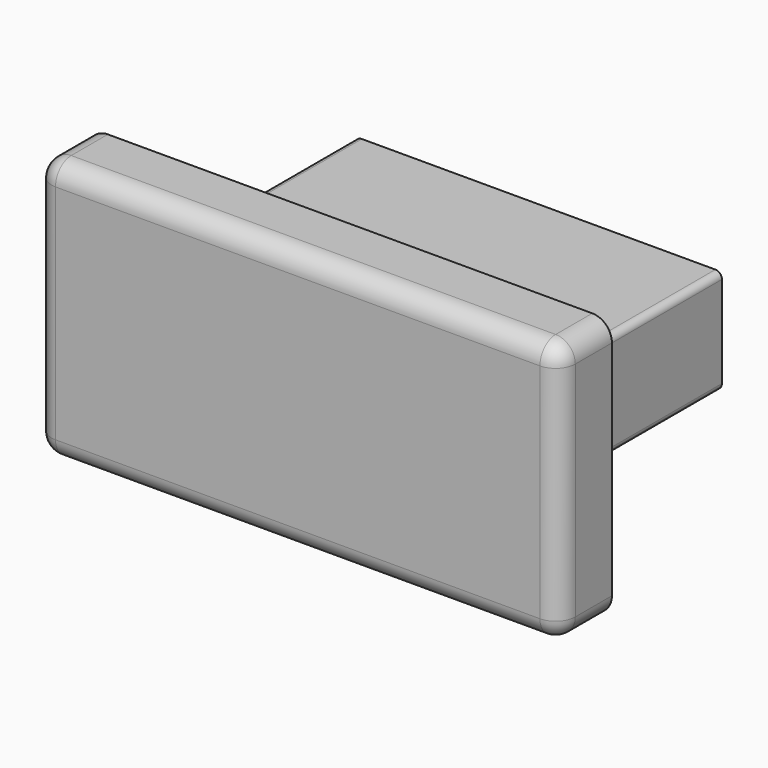
from build123d import *

# Parameters (mm, degrees)
SKETCH_W     = 30
SKETCH_H     = 10
PAD_DEPTH    = 3.1
SKETCH001_W  = 40
SKETCH001_H  = 20
PAD001_DEPTH = 5
FILLET_R     = 1.5
FILLET001_R  = 3
FILLET002_R  = 1.5
SKETCH002_W  = 28
SKETCH002_H  = 8
PAD002_DEPTH = 14.9
FILLET003_R  = 0.5


with BuildPart() as part:
    # Sketch → Pad (new body)
    with BuildSketch(Plane.XZ):
        Rectangle(SKETCH_W, SKETCH_H)
    extrude(amount=PAD_DEPTH)

    # Sketch001 (on Face6 of Pad) → Pad001 (join)
    with BuildSketch(Plane.XZ.offset(3.1)):
        Rectangle(SKETCH001_W, SKETCH001_H)
    extrude(amount=PAD001_DEPTH)

    # Fillet
    fillet_edges = [part.edges().sort_by_distance(p)[0] for p in [
        (15, -1.55, 5),
        (15, -1.55, -5),
        (-15, -1.55, 5),
        (-15, -1.55, -5),
    ]]
    fillet(fillet_edges, radius=FILLET_R)

    # Fillet001
    fillet001_edges = [part.edges().sort_by_distance(p)[0] for p in [
        (0, -3.1, 5),
    ]]
    fillet(fillet001_edges, radius=FILLET001_R)

    # Fillet002
    fillet002_edges = [part.edges().sort_by_distance(p)[0] for p in [
        (0, -8.1, 10),
        (-20, -8.1, 0),
        (20, -8.1, 0),
        (0, -8.1, -10),
        (20, -5.6, 10),
        (-20, -5.6, 10),
        (20, -5.6, -10),
        (-20, -5.6, -10),
    ]]
    fillet(fillet002_edges, radius=FILLET002_R)

    # Sketch002 (on Face4 of Fillet001) → Pad002 (join)
    with BuildSketch(Plane(origin=(0, 0, 0), x_dir=(1, 0, 0), z_dir=(0, 1, 0))):
        Rectangle(SKETCH002_W, SKETCH002_H)
    extrude(amount=PAD002_DEPTH)

    # Fillet003
    fillet003_edges = [part.edges().sort_by_distance(p)[0] for p in [
        (14, 7.45, 4),
        (-14, 7.45, 4),
        (-14, 7.45, -4),
        (14, 7.45, -4),
    ]]
    fillet(fillet003_edges, radius=FILLET003_R)


solid = part.part
